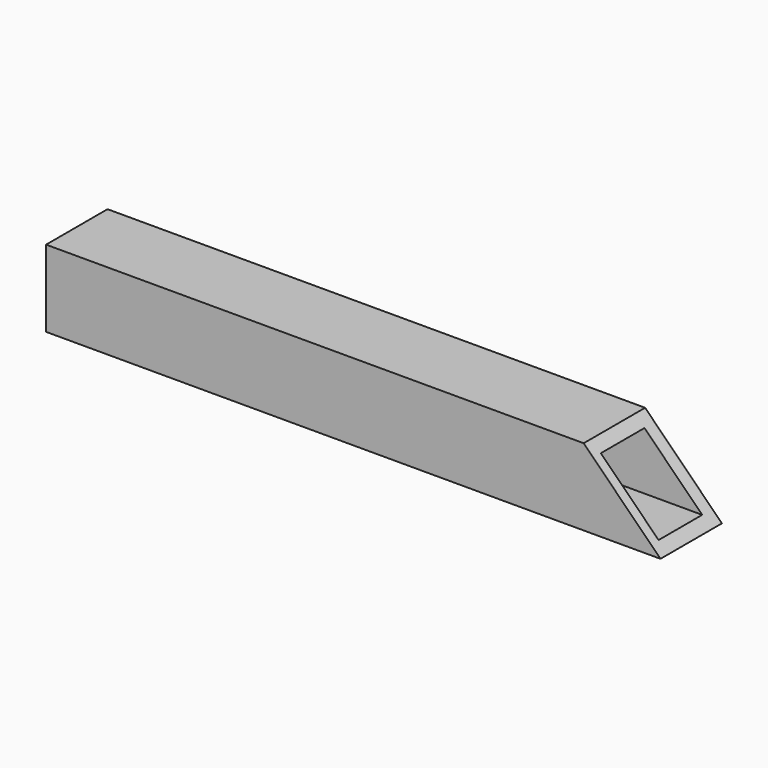
from build123d import *

# Parameters (mm, degrees)
F0_W     = 38.1
F0_H     = 38.1
F0_W_2   = 27.053848
F0_H_2   = 28.628648
F1_DEPTH = 304.8
F3_DEPTH = 38.101


with BuildPart() as f1:
    # F0 (on Right) → F1 (new body)
    with BuildSketch(Plane.YZ):
        Rectangle(F0_W, F0_H)
        with Locations((-0.7874, 0)):
            Rectangle(F0_W_2, F0_H_2, mode=Mode.SUBTRACT)
    extrude(amount=F1_DEPTH)

    # F2 (on face) → F3 (cut, through all)
    with BuildSketch(Plane.XZ.offset(19.05)):
        Polygon((266.7, 19.05), (304.8, -19.05), (304.8, 19.05), align=None)
    extrude(amount=-F3_DEPTH, mode=Mode.SUBTRACT)


solid = f1.part
